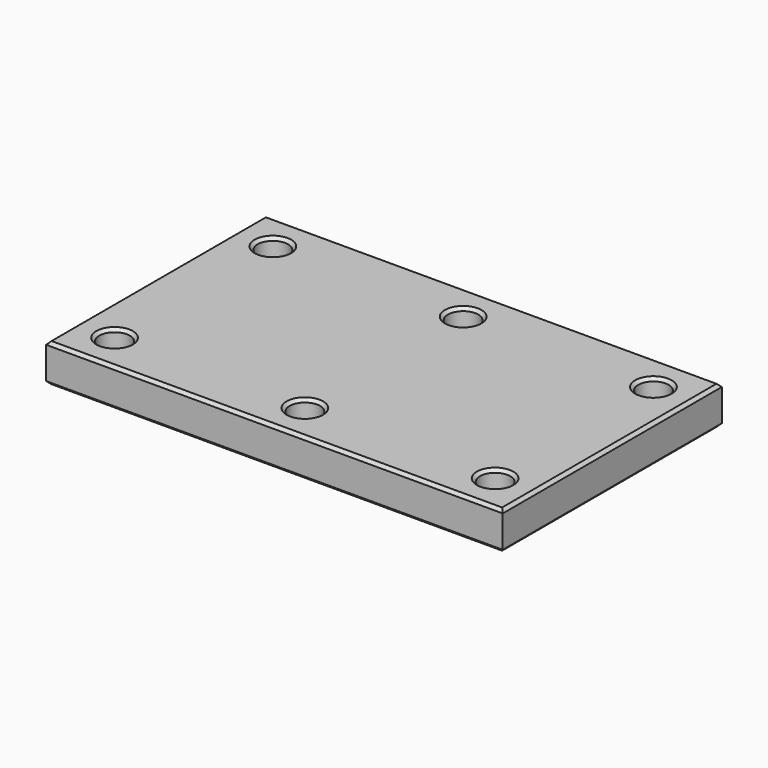
from build123d import *

# Parameters (mm, degrees)
F0_W     = 300
F0_H     = 180
F1_DEPTH = 25
F2_R     = 10
F3_DEPTH = 25.001
F4_SIZE2 = 2
F4_SIZE  = 2


with BuildPart() as f1:
    # F0 (on Top) → F1 (new body)
    with BuildSketch(Plane.XY):
        Rectangle(F0_W, F0_H)
    extrude(amount=F1_DEPTH)

    # F2 (on face) → F3 (cut, through all)
    with BuildSketch(Plane.XY.offset(25)):
        with Locations((-125, 65)):
            Circle(F2_R)
        with Locations((0, 65)):
            Circle(F2_R)
        with Locations((125, 65)):
            Circle(F2_R)
        with Locations((125, -65)):
            Circle(F2_R)
        with Locations((0, -65)):
            Circle(F2_R)
        with Locations((-125, -65)):
            Circle(F2_R)
    extrude(amount=-F3_DEPTH, mode=Mode.SUBTRACT)

    # F4
    f4_edges = [f1.edges().sort_by_distance(p)[0] for p in [
        (0, 90, 25),
        (150, 0, 25),
        (-150, 0, 25),
        (0, -90, 25),
        (-135, -65, 25),
        (-10, -65, 25),
        (115, -65, 25),
        (-135, 65, 25),
        (-10, 65, 25),
        (115, 65, 25),
        (0, 90, 0),
        (150, 0, 0),
        (-150, 0, 0),
        (0, -90, 0),
        (-135, -65, 0),
        (-10, -65, 0),
        (115, -65, 0),
        (-135, 65, 0),
        (-10, 65, 0),
        (115, 65, 0),
    ]]
    chamfer(f4_edges, length=F4_SIZE, length2=F4_SIZE2)


solid = f1.part
